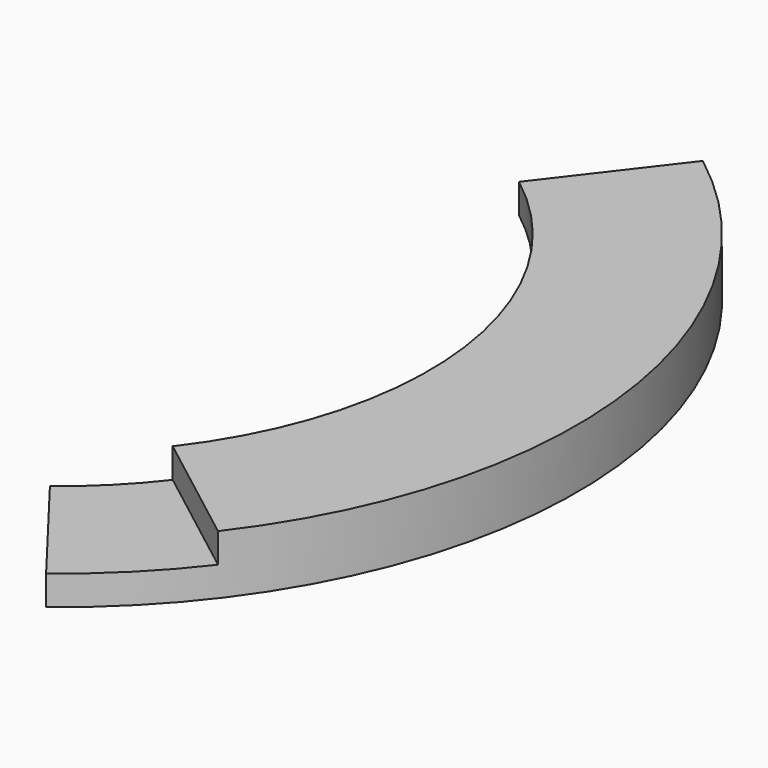
from build123d import *

# Parameters (mm, degrees)
F0_W          = 127
F0_H          = 25.4
F1_ANGLE_BACK = 52.5
F1_ANGLE      = 90
F2_ANGLE_BACK = 37.5
F2_ANGLE      = 90


with BuildPart() as f1:
    # F0 (on Front) → F1 (revolve)
    with BuildSketch(Plane.XZ, mode=Mode.PRIVATE) as f1_sk:
        with Locations((381, 12.7)):
            Rectangle(F0_W, F0_H)
    revolve(f1_sk.sketch.rotate(Axis((0, 0, 25.6199203432), (0, 0, 1)), -F1_ANGLE_BACK), axis=Axis((0, 0, 25.6199203432), (0, 0, 1)), revolution_arc=F1_ANGLE)

    # F0 (on Front) → F2 (revolve)
    with BuildSketch(Plane.XZ, mode=Mode.PRIVATE) as f2_sk:
        with Locations((381, 38.1)):
            Rectangle(F0_W, F0_H)
    revolve(f2_sk.sketch.rotate(Axis((0, 0, 25.6199203432), (0, 0, 1)), -F2_ANGLE_BACK), axis=Axis((0, 0, 25.6199203432), (0, 0, 1)), revolution_arc=F2_ANGLE)


solid = f1.part
